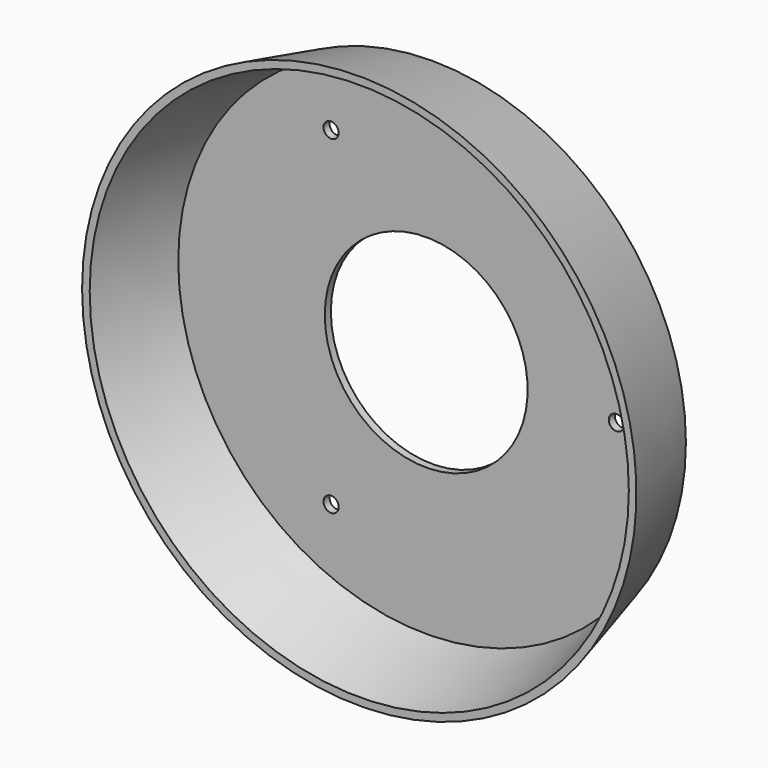
from build123d import *

# Parameters (mm, degrees)
SKETCH001_R     = 1.5
HOLE_DEPTH      = 25
COPYSKETCH002_R = 20
POCKET_DEPTH    = 5


with BuildPart() as part:
    # Sketch → Revolution (revolve)
    with BuildSketch(Plane.XY):
        Polygon((-54.6463, 0), (-53.1463, 0), (-48.887192, 16.5), (0, 16.5), (0, 18), (-50, 18), align=None)
    revolve(axis=Axis((0, 0, 0), (0, 1, 0)))

    # Sketch001 (on Face4 of Revolution) → Hole (cut)
    with BuildSketch(Plane(origin=(0, 18, 0), x_dir=(-1, 0, 0), z_dir=(0, 1, 0))):
        with Locations((-37.5, 0)):
            Circle(SKETCH001_R)
        with Locations((18.75, 32.475953)):
            Circle(SKETCH001_R)
        with Locations((18.75, -32.475953)):
            Circle(SKETCH001_R)
        Circle(SKETCH001_R)
    extrude(amount=-HOLE_DEPTH, mode=Mode.SUBTRACT)

    # CopySketch002 → Pocket (cut)
    with BuildSketch(Plane(origin=(0, 18, 0), x_dir=(-1, 0, 0), z_dir=(0, 1, 0))):
        Circle(COPYSKETCH002_R)
    extrude(amount=-POCKET_DEPTH, mode=Mode.SUBTRACT)


solid = part.part
